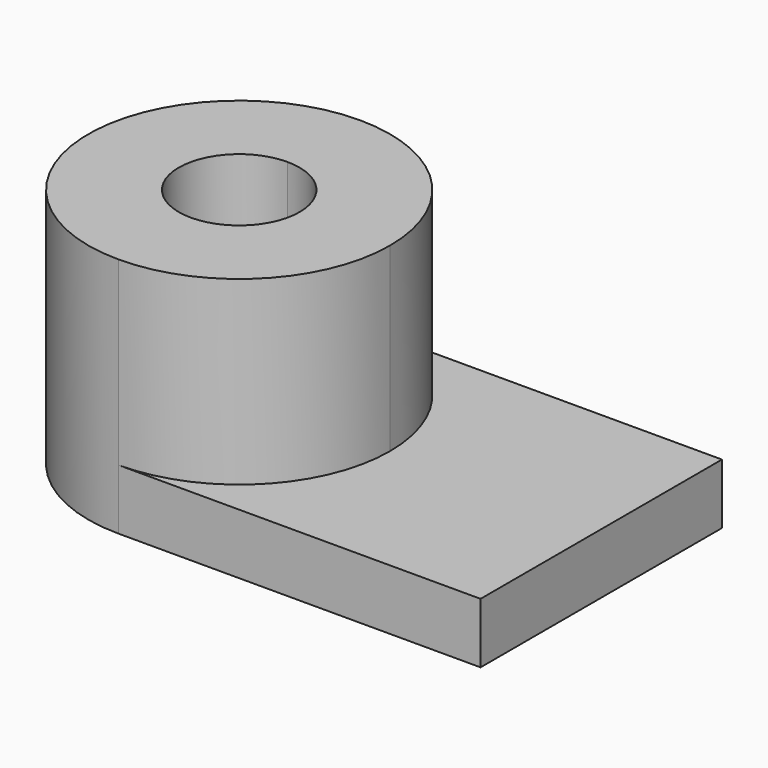
from build123d import *

# Parameters (mm, degrees)
F1_DEPTH = 12.7
F2_DEPTH = 50.8


with BuildPart() as f1:
    # F0 (on Top) → F1 (new body)
    with BuildSketch(Plane.XY):
        with BuildLine():
            Line((-38.1, -12.7), (-38.1, -31.75))
            ThreePointArc((-38.1, -31.75), (-15.64936, -22.45064), (-6.35, 0))
            ThreePointArc((-6.35, 0), (-15.64936, 22.45064), (-38.1, 31.75))
            Line((-38.1, 31.75), (-38.1, 12.7))
            ThreePointArc((-38.1, 12.7), (-29.119744, 8.980256), (-25.4, 0))
            ThreePointArc((-25.4, 0), (-29.119744, -8.980256), (-38.1, -12.7))
        make_face()
        with BuildLine():
            ThreePointArc((-38.1, 31.75), (-69.85, 0), (-38.1, -31.75))
            Line((-38.1, -31.75), (-38.1, -12.7))
            ThreePointArc((-38.1, -12.7), (-50.8, 0), (-38.1, 12.7))
            Line((-38.1, 12.7), (-38.1, 31.75))
        make_face()
        with BuildLine():
            Line((-38.1, -31.75), (38.1, -31.75))
            Line((38.1, -31.75), (38.1, 31.75))
            Line((38.1, 31.75), (-38.1, 31.75))
            ThreePointArc((-38.1, 31.75), (-15.64936, 22.45064), (-6.35, 0))
            ThreePointArc((-6.35, 0), (-15.64936, -22.45064), (-38.1, -31.75))
        make_face()
    extrude(amount=F1_DEPTH)

    # F0 (on Top) → F2 (join)
    with BuildSketch(Plane.XY):
        with BuildLine():
            ThreePointArc((-38.1, 31.75), (-69.85, 0), (-38.1, -31.75))
            Line((-38.1, -31.75), (-38.1, -12.7))
            ThreePointArc((-38.1, -12.7), (-50.8, 0), (-38.1, 12.7))
            Line((-38.1, 12.7), (-38.1, 31.75))
        make_face()
        with BuildLine():
            Line((-38.1, -12.7), (-38.1, -31.75))
            ThreePointArc((-38.1, -31.75), (-15.64936, -22.45064), (-6.35, 0))
            ThreePointArc((-6.35, 0), (-15.64936, 22.45064), (-38.1, 31.75))
            Line((-38.1, 31.75), (-38.1, 12.7))
            ThreePointArc((-38.1, 12.7), (-29.119744, 8.980256), (-25.4, 0))
            ThreePointArc((-25.4, 0), (-29.119744, -8.980256), (-38.1, -12.7))
        make_face()
    extrude(amount=F2_DEPTH)


solid = f1.part
